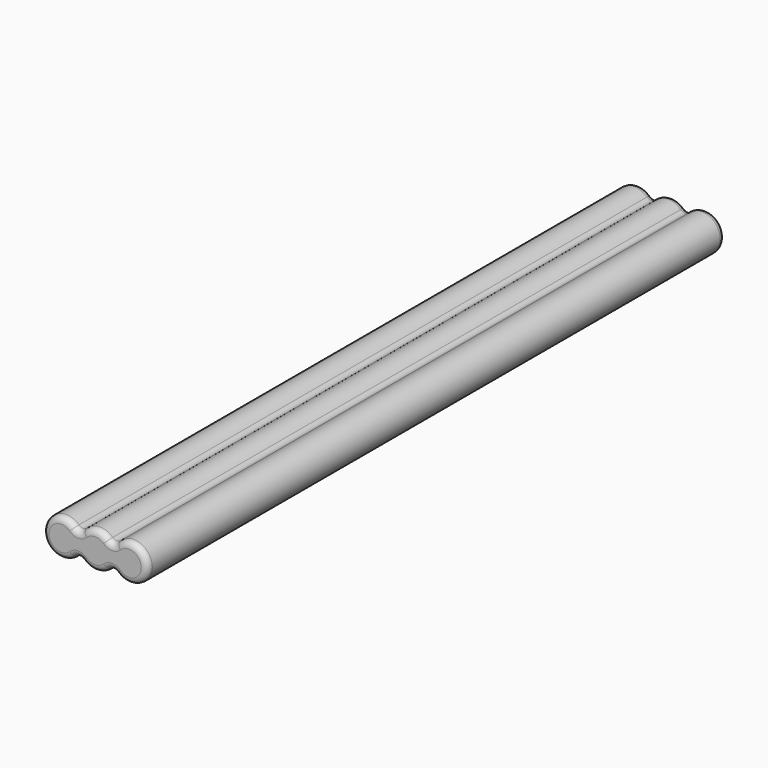
from build123d import *

# Parameters (mm, degrees)
F1_DEPTH = 74.6125
F2_R     = 1.27


with BuildPart() as f1:
    # F0 (on Front) → F1 (new body, symmetric)
    with BuildSketch(Plane.XZ):
        with BuildLine():
            ThreePointArc((3.4925, -1.5226765087), (10.795, 0), (3.4925, 1.5226765087))
            ThreePointArc((3.4925, 1.5226765087), (0, 3.81), (-3.4925, 1.5226765087))
            ThreePointArc((-3.4925, 1.5226765087), (-10.795, 0), (-3.4925, -1.5226765087))
            ThreePointArc((-3.4925, -1.5226765087), (0, -3.81), (3.4925, -1.5226765087))
        make_face()
    extrude(amount=F1_DEPTH, both=True)

    # F2
    f2_edges = [f1.edges().sort_by_distance(p)[0] for p in [
        (-3.4925, 0, 1.522677),
        (3.4925, 0, 1.522677),
        (-3.4925, 0, -1.522677),
        (3.4925, 0, -1.522677),
        (0, 74.6125, -3.81),
        (10.795, 74.6125, 0),
        (0, 74.6125, 3.81),
        (-10.795, 74.6125, 0),
        (0, -74.6125, -3.81),
        (10.795, -74.6125, 0),
        (0, -74.6125, 3.81),
        (-10.795, -74.6125, 0),
    ]]
    fillet(f2_edges, radius=F2_R)


solid = f1.part
